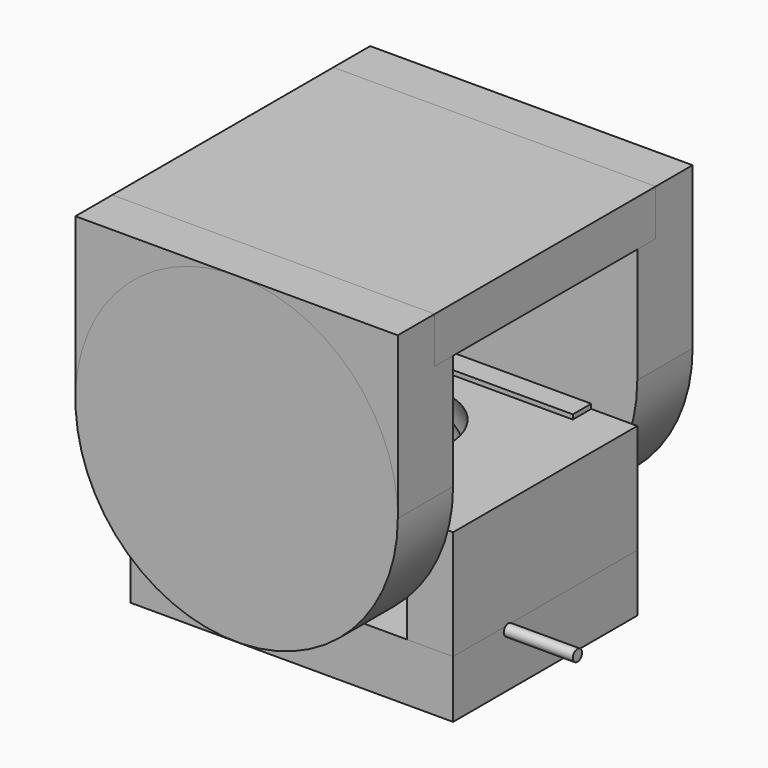
from build123d import *

# Parameters (mm, degrees)
CYLINDER002_R           = 0.25
CYLINDER002_DEPTH       = 10
CYLINDER002_PITCH_ANGLE = 90
CYLINDER001_R           = 0.25
CYLINDER001_DEPTH       = 10
CYLINDER001_PITCH_ANGLE = 90
BOX_W                   = 6.5
BOX_H                   = 4.8
BOX_DEPTH               = 1
BOX004_W                = 10
BOX004_H                = 3
BOX004_DEPTH            = 5
CYLINDER_R              = 1.5
CYLINDER_DEPTH          = 10
BOX005_W                = 21
BOX005_H                = 17
BOX005_DEPTH            = 8
CYLINDER005_R           = 2.5
CYLINDER005_DEPTH       = 10
CYLINDER004_R           = 0.25
CYLINDER004_DEPTH       = 10
CYLINDER004_PITCH_ANGLE = 90
CYLINDER003_R           = 0.25
CYLINDER003_DEPTH       = 10
CYLINDER003_PITCH_ANGLE = 90
BOX002_W                = 6.5
BOX002_H                = 4.8
BOX002_DEPTH            = 1
BOX003_W                = 10
BOX003_H                = 12
BOX003_DEPTH            = 3
BOX001_W                = 14
BOX001_H                = 10
BOX001_DEPTH            = 7.25
BOX006_W                = 21
BOX006_H                = 17
BOX006_DEPTH            = 12
CYLINDER006_R           = 7
CYLINDER006_DEPTH       = 3
CYLINDER006_ROLL_ANGLE  = 90
BOX007_W                = 14
BOX007_H                = 3
BOX007_DEPTH            = 7
BOX008_W                = 14
BOX008_H                = 3
BOX008_DEPTH            = 7
CYLINDER007_R           = 7
CYLINDER007_DEPTH       = 3
CYLINDER007_ROLL_ANGLE  = 90
BOX009_W                = 14
BOX009_H                = 12
BOX009_DEPTH            = 2


with BuildPart() as cylinder002:
    # Cylinder002 → Cylinder002 (new body)
    with BuildSketch(Plane.XY):
        Circle(CYLINDER002_R)
    extrude(amount=CYLINDER002_DEPTH)


with BuildPart() as cylinder002_1:
    # Cylinder002 pitch: moved
    add(cylinder002.part.rotate(Axis((0, 0, 0), (0, 1, 0)), CYLINDER002_PITCH_ANGLE))


with BuildPart() as cylinder002_2:
    # Cylinder002 placement: moved
    add(cylinder002_1.part.moved(Location((0, -2, -3.7))))


with BuildPart() as fusion002:
    # Cylinder001 → Cylinder001 (new body)
    with BuildSketch(Plane.XY):
        Circle(CYLINDER001_R)
    extrude(amount=CYLINDER001_DEPTH)


with BuildPart() as fusion002_1:
    # Cylinder001 pitch: moved
    add(fusion002.part.rotate(Axis((0, 0, 0), (0, 1, 0)), CYLINDER001_PITCH_ANGLE))


with BuildPart() as fusion002_2:
    # Cylinder001 placement: moved
    add(fusion002_1.part.moved(Location((-11, 2, -3.7))))

    # Fusion002: union Cylinder002
    add(cylinder002_2.part)


with BuildPart() as switch:
    # Box → Box (new body)
    with BuildSketch(Plane(origin=(-3.25, -2.4, -4.2), x_dir=(1, 0, 0), z_dir=(0, 0, 1))):
        with Locations((3.25, 2.4)):
            Rectangle(BOX_W, BOX_H)
    extrude(amount=BOX_DEPTH)

    # Fusion003: union Fusion002
    add(fusion002_2.part)


with BuildPart() as cube004:
    # Box004 → Box004 (new body)
    with BuildSketch(Plane(origin=(-5, 4, -3.55), x_dir=(1, 0, 0), z_dir=(0, 0, 1))):
        with Locations((5, 1.5)):
            Rectangle(BOX004_W, BOX004_H)
    extrude(amount=BOX004_DEPTH)


with BuildPart() as cylinder:
    # Cylinder → Cylinder (new body)
    with BuildSketch(Plane.XY):
        Circle(CYLINDER_R)
    extrude(amount=CYLINDER_DEPTH)


with BuildPart() as ball_and_screw:
    # Sphere → Sphere (revolve)
    with BuildSketch(Plane.XZ):
        with BuildLine():
            ThreePointArc((0, -3), (3, 0), (0, 3))
            Line((0, 3), (0, -3))
        make_face()
    revolve(axis=Axis((0, 0, 0), (0, 0, 1)))

    # Fusion005: union Cylinder
    add(cylinder.part)


with BuildPart() as ball_and_screw_1:
    # Fusion005 placement: moved
    add(ball_and_screw.part.moved(Location((0, 0, -1))))


with BuildPart() as cube005:
    # Box005 → Box005 (new body)
    with BuildSketch(Plane(origin=(-9, -7, -3.5), x_dir=(1, 0, 0), z_dir=(0, 0, 1))):
        with Locations((10.5, 8.5)):
            Rectangle(BOX005_W, BOX005_H)
    extrude(amount=BOX005_DEPTH)


with BuildPart() as cylinder005:
    # Cylinder005 → Cylinder005 (new body)
    with BuildSketch(Plane.XY.offset(0.5)):
        Circle(CYLINDER005_R)
    extrude(amount=CYLINDER005_DEPTH)


with BuildPart() as fusion004:
    # Sphere001 → Sphere001 (revolve)
    with BuildSketch(Plane.XZ):
        with BuildLine():
            ThreePointArc((0, -3.1), (3.1, 0), (0, 3.1))
            Line((0, 3.1), (0, -3.1))
        make_face()
    revolve(axis=Axis((0, 0, 0), (0, 0, 1)))

    # Fusion004: union Cylinder005
    add(cylinder005.part)


with BuildPart() as cylinder004:
    # Cylinder004 → Cylinder004 (new body)
    with BuildSketch(Plane.XY):
        Circle(CYLINDER004_R)
    extrude(amount=CYLINDER004_DEPTH)


with BuildPart() as cylinder004_1:
    # Cylinder004 pitch: moved
    add(cylinder004.part.rotate(Axis((0, 0, 0), (0, 1, 0)), CYLINDER004_PITCH_ANGLE))


with BuildPart() as cylinder004_2:
    # Cylinder004 placement: moved
    add(cylinder004_1.part.moved(Location((0, -2, -3.7))))


with BuildPart() as fusion:
    # Cylinder003 → Cylinder003 (new body)
    with BuildSketch(Plane.XY):
        Circle(CYLINDER003_R)
    extrude(amount=CYLINDER003_DEPTH)


with BuildPart() as fusion_1:
    # Cylinder003 pitch: moved
    add(fusion.part.rotate(Axis((0, 0, 0), (0, 1, 0)), CYLINDER003_PITCH_ANGLE))


with BuildPart() as fusion_2:
    # Cylinder003 placement: moved
    add(fusion_1.part.moved(Location((-11, 2, -3.7))))

    # Fusion: union Cylinder004
    add(cylinder004_2.part)


with BuildPart() as fusion001:
    # Box002 → Box002 (new body)
    with BuildSketch(Plane(origin=(-3.25, -2.4, -4.2), x_dir=(1, 0, 0), z_dir=(0, 0, 1))):
        with Locations((3.25, 2.4)):
            Rectangle(BOX002_W, BOX002_H)
    extrude(amount=BOX002_DEPTH)

    # Fusion001: union Fusion
    add(fusion_2.part)


with BuildPart() as cube003:
    # Box003 → Box003 (new body)
    with BuildSketch(Plane(origin=(-5, -6, -3.5), x_dir=(1, 0, 0), z_dir=(0, 0, 1))):
        with Locations((5, 6)):
            Rectangle(BOX003_W, BOX003_H)
    extrude(amount=BOX003_DEPTH)


with BuildPart() as cut001:
    # Box001 → Box001 (new body)
    with BuildSketch(Plane(origin=(-7, -5, -6), x_dir=(1, 0, 0), z_dir=(0, 0, 1))):
        with Locations((7, 5)):
            Rectangle(BOX001_W, BOX001_H)
    extrude(amount=BOX001_DEPTH)

    # Cut: cut Cube003
    add(cube003.part, mode=Mode.SUBTRACT)

    # Cut001: cut Fusion001
    add(fusion001.part, mode=Mode.SUBTRACT)


with BuildPart() as bottom_switch_holder:
    # Cut003 base: copy of Cut001
    add(cut001.part)

    # Cut003: cut Fusion004
    add(fusion004.part, mode=Mode.SUBTRACT)

    # Cut004: cut Cube005
    add(cube005.part, mode=Mode.SUBTRACT)


with BuildPart() as cube006:
    # Box006 → Box006 (new body)
    with BuildSketch(Plane(origin=(-9, -7, -3.5), x_dir=(1, 0, 0), z_dir=(0, 0, 1))):
        with Locations((10.5, 8.5)):
            Rectangle(BOX006_W, BOX006_H)
    extrude(amount=BOX006_DEPTH)


with BuildPart() as ball_and_screw_holder:
    # Cut002 base: copy of Cut001
    add(cut001.part)

    # Cut002: cut Fusion004
    add(fusion004.part, mode=Mode.SUBTRACT)

    # Common: intersect Cube006
    add(cube006.part, mode=Mode.INTERSECT)


with BuildPart() as cylinder006:
    # Cylinder006 → Cylinder006 (new body)
    with BuildSketch(Plane.XY):
        Circle(CYLINDER006_R)
    extrude(amount=CYLINDER006_DEPTH)


with BuildPart() as cylinder006_1:
    # Cylinder006 roll: moved
    add(cylinder006.part.rotate(Axis((0, 0, 0), (1, 0, 0)), CYLINDER006_ROLL_ANGLE))


with BuildPart() as cylinder006_2:
    # Cylinder006 placement: moved
    add(cylinder006_1.part.moved(Location((0, 8, 3))))


with BuildPart() as fusion006:
    # Box007 → Box007 (new body)
    with BuildSketch(Plane(origin=(-7, 5, 3), x_dir=(1, 0, 0), z_dir=(0, 0, 1))):
        with Locations((7, 1.5)):
            Rectangle(BOX007_W, BOX007_H)
    extrude(amount=BOX007_DEPTH)

    # Fusion006: union Cylinder006
    add(cylinder006_2.part)


with BuildPart() as cube008:
    # Box008 → Box008 (new body)
    with BuildSketch(Plane(origin=(-7, -8, 3), x_dir=(1, 0, 0), z_dir=(0, 0, 1))):
        with Locations((7, 1.5)):
            Rectangle(BOX008_W, BOX008_H)
    extrude(amount=BOX008_DEPTH)


with BuildPart() as cylinder007:
    # Cylinder007 → Cylinder007 (new body)
    with BuildSketch(Plane.XY):
        Circle(CYLINDER007_R)
    extrude(amount=CYLINDER007_DEPTH)


with BuildPart() as cylinder007_1:
    # Cylinder007 roll: moved
    add(cylinder007.part.rotate(Axis((0, 0, 0), (1, 0, 0)), CYLINDER007_ROLL_ANGLE))


with BuildPart() as cylinder007_2:
    # Cylinder007 placement: moved
    add(cylinder007_1.part.moved(Location((0, -5, 3))))


with BuildPart() as cube009:
    # Box009 → Box009 (new body)
    with BuildSketch(Plane(origin=(-7, -6, 8), x_dir=(1, 0, 0), z_dir=(0, 0, 1))):
        with Locations((7, 6)):
            Rectangle(BOX009_W, BOX009_H)
    extrude(amount=BOX009_DEPTH)


solid = Compound([switch.part, cube004.part, ball_and_screw_1.part, bottom_switch_holder.part, ball_and_screw_holder.part, fusion006.part, cube008.part, cylinder007_2.part, cube009.part])
